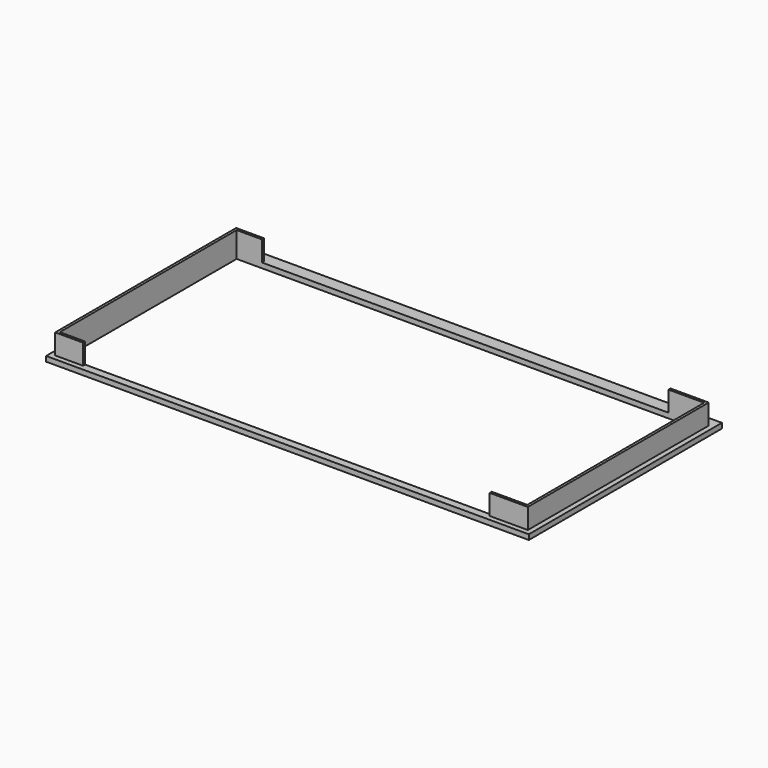
from build123d import *

# Parameters (mm, degrees)
BOX_W        = 190
BOX_H        = 95
BOX_DEPTH    = 2
BOX001_W     = 186
BOX001_H     = 89
BOX001_DEPTH = 10
BOX002_W     = 184
BOX002_H     = 87
BOX002_DEPTH = 10
BOX003_W     = 160
BOX003_H     = 89
BOX003_DEPTH = 10


with BuildPart() as part:
    # Box → Box (join)
    with BuildSketch(Plane.XY):
        with Locations((95, 47.5)):
            Rectangle(BOX_W, BOX_H)
    extrude(amount=BOX_DEPTH)

    # Box001 → Box001 (join)
    with BuildSketch(Plane(origin=(2, 2, 0), x_dir=(1, 0, 0), z_dir=(0, 0, 1))):
        with Locations((93, 44.5)):
            Rectangle(BOX001_W, BOX001_H)
    extrude(amount=BOX001_DEPTH)

    # Box002 → Box002 (cut)
    with BuildSketch(Plane(origin=(3, 3, 0), x_dir=(1, 0, 0), z_dir=(0, 0, 1))):
        with Locations((92, 43.5)):
            Rectangle(BOX002_W, BOX002_H)
    extrude(amount=BOX002_DEPTH, mode=Mode.SUBTRACT)

    # Box003 → Box003 (cut)
    with BuildSketch(Plane(origin=(13, 2, 2), x_dir=(1, 0, 0), z_dir=(0, 0, 1))):
        with Locations((80, 44.5)):
            Rectangle(BOX003_W, BOX003_H)
    extrude(amount=BOX003_DEPTH, mode=Mode.SUBTRACT)


solid = part.part
